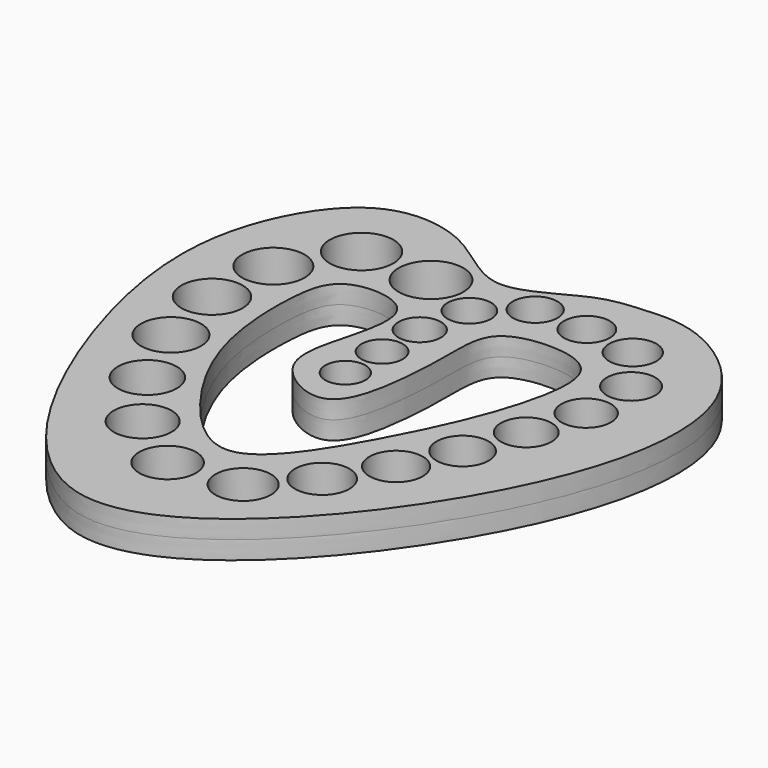
from build123d import *

# Parameters (mm, degrees)
F2_DEPTH = 6.35
F0_R     = 10.9
F0_R_2   = 10.5
F0_R_3   = 11.1
F0_R_4   = 10.3
F0_R_5   = 7.2
F0_R_6   = 8.45
F0_R_7   = 8.65
F0_R_8   = 10.7
F0_R_9   = 8.85
F0_R_10  = 7.6
F0_R_11  = 8.225
F0_R_12  = 7.8
F0_R_13  = 10.1
F0_R_14  = 9.3
F0_R_15  = 8
F0_R_16  = 9.1
F0_R_17  = 7
F0_R_18  = 7.4
F0_R_19  = 9.9
F0_R_20  = 9.5
F0_R_21  = 9.7
F0_R_22  = 11.3
F3_DEPTH = 25.4
F4_DEPTH = 25.4


with BuildPart() as f2:
    # F1 (on Top) → F2 (new body, symmetric)
    with BuildSketch(Plane.XY):
        with BuildLine():
            add(Edge.make_bspline(
                [(0, 73.468580842), (-8.122124236, 73.8999218416), (-22.3324321314, 89.6814562319), (-54.8940625764, 93.5501482749), (-78.7384732649, 59.5644524786), (-82.2800825272, 1.8008273808), (-17.1311278369, -142.0525596593), (88.0651895103, -23.4831795977), (99.8627372712, 59.0430291578), (59.9212761948, 87.6228241956), (39.6040910504, 85.8981163242), (23.9753470166, 84.8930553916), (7.9694994927, 73.0453452724), (0, 73.468580842)],
                knots=[0, 0, 0, 0, 0.0700659521, 0.1416379403, 0.2204363249, 0.3262765421, 0.4702207362, 0.6142162337, 0.7349213942, 0.8195574791, 0.8780235957, 0.9312506737, 1, 1, 1, 1], degree=3))
        make_face()
        with BuildLine():
            add(Edge.make_bspline(
                [(4.547782708, -49.2216423154), (14.159466043, -47.9084915286), (33.0864704198, -17.9138583621), (50.0657453723, 20.1748161197), (53.7192588881, 50.3547887422), (33.1395317286, 54.7410771261), (15.2919988522, 50.4661622798), (15.3577878369, 32.4603440721), (15.1604272362, 15.0512205842), (9.8382874753, -16.8635964044), (-18.8508301913, -0.7976718261), (-13.5722428591, 20.6983318176), (-5.8676751477, 48.80891577), (-36.4236290707, 50.939565943), (-39.9748292217, 30.1124675652), (-38.4849726038, -1.4056806657), (-22.0735611586, -32.3604434934), (-3.6859102559, -50.3465316835), (4.547782708, -49.2216423154)],
                knots=[0, 0, 0, 0, 0.0794315178, 0.1659161304, 0.228304481, 0.2802547287, 0.3305819906, 0.3791975865, 0.4359612868, 0.4981234512, 0.5557273261, 0.6143362812, 0.6755192076, 0.7317862955, 0.7842484349, 0.8551498095, 0.9319562759, 1, 1, 1, 1], degree=3))
        make_face(mode=Mode.SUBTRACT)
    extrude(amount=F2_DEPTH, both=True)

    # F0 (on Top) → F3 (cut)
    with BuildSketch(Plane.XY):
        with Locations((-54.5825645706, 43.1412555529)):
            Circle(F0_R)
        with Locations((-51.0299037954, -5.9275095132)):
            Circle(F0_R_2)
        with Locations((-41.1919876933, 64.8661926389)):
            Circle(F0_R_3)
        with Locations((-40.3519104653, -29.5802613381)):
            Circle(F0_R_4)
        with Locations((0, 22.3180018365)):
            Circle(F0_R_5)
        with Locations((65.8171921968, 48.5991314054)):
            Circle(F0_R_6)
        with Locations((66.1115945971, 28.6532507417)):
            Circle(F0_R_7)
        with Locations((-56.3537539933, 18.6113140359)):
            Circle(F0_R_8)
        with Locations((60.4585856199, 9.6003552899)):
            Circle(F0_R_9)
        with Locations((3.5560117103, 55.9419207275)):
            Circle(F0_R_10)
        with Locations((53.6703747542, 64.5224916059)):
            Circle(F0_R_11)
        with Locations((17.148161307, 67.6382258534)):
            Circle(F0_R_12)
        with Locations((-25.2103734902, -50.5618527212)):
            Circle(F0_R_13)
        with Locations((45.3312620521, -28.2262340188)):
            Circle(F0_R_14)
        with Locations((35.4109671677, 67.3277019464)):
            Circle(F0_R_15)
        with Locations((53.7978895009, -9.8132928833)):
            Circle(F0_R_16)
        with Locations((0, 6.3115715412)):
            Circle(F0_R_17)
        with Locations((0, 38.7491956353)):
            Circle(F0_R_18)
        with Locations((-4.7091166262, -65.3049236855)):
            Circle(F0_R_19)
        with Locations((34.1800935566, -46.5141572058)):
            Circle(F0_R_20)
        with Locations((19.4605477154, -62.5718459487)):
            Circle(F0_R_21)
        with Locations((-15.9597620368, 63.6045783758)):
            Circle(F0_R_22)
    extrude(amount=F3_DEPTH, mode=Mode.SUBTRACT)

    # F0 (on Top) → F4 (cut)
    with BuildSketch(Plane.XY):
        with Locations((-54.5825645706, 43.1412555529)):
            Circle(F0_R)
        with Locations((-51.0299037954, -5.9275095132)):
            Circle(F0_R_2)
        with Locations((-41.1919876933, 64.8661926389)):
            Circle(F0_R_3)
        with Locations((-40.3519104653, -29.5802613381)):
            Circle(F0_R_4)
        with Locations((0, 22.3180018365)):
            Circle(F0_R_5)
        with Locations((65.8171921968, 48.5991314054)):
            Circle(F0_R_6)
        with Locations((66.1115945971, 28.6532507417)):
            Circle(F0_R_7)
        with Locations((-56.3537539933, 18.6113140359)):
            Circle(F0_R_8)
        with Locations((60.4585856199, 9.6003552899)):
            Circle(F0_R_9)
        with Locations((3.5560117103, 55.9419207275)):
            Circle(F0_R_10)
        with Locations((53.6703747542, 64.5224916059)):
            Circle(F0_R_11)
        with Locations((17.148161307, 67.6382258534)):
            Circle(F0_R_12)
        with Locations((-25.2103734902, -50.5618527212)):
            Circle(F0_R_13)
        with Locations((45.3312620521, -28.2262340188)):
            Circle(F0_R_14)
        with Locations((35.4109671677, 67.3277019464)):
            Circle(F0_R_15)
        with Locations((53.7978895009, -9.8132928833)):
            Circle(F0_R_16)
        with Locations((0, 6.3115715412)):
            Circle(F0_R_17)
        with Locations((0, 38.7491956353)):
            Circle(F0_R_18)
        with Locations((-4.7091166262, -65.3049236855)):
            Circle(F0_R_19)
        with Locations((34.1800935566, -46.5141572058)):
            Circle(F0_R_20)
        with Locations((19.4605477154, -62.5718459487)):
            Circle(F0_R_21)
        with Locations((-15.9597620368, 63.6045783758)):
            Circle(F0_R_22)
    extrude(amount=-F4_DEPTH, mode=Mode.SUBTRACT)


solid = f2.part
